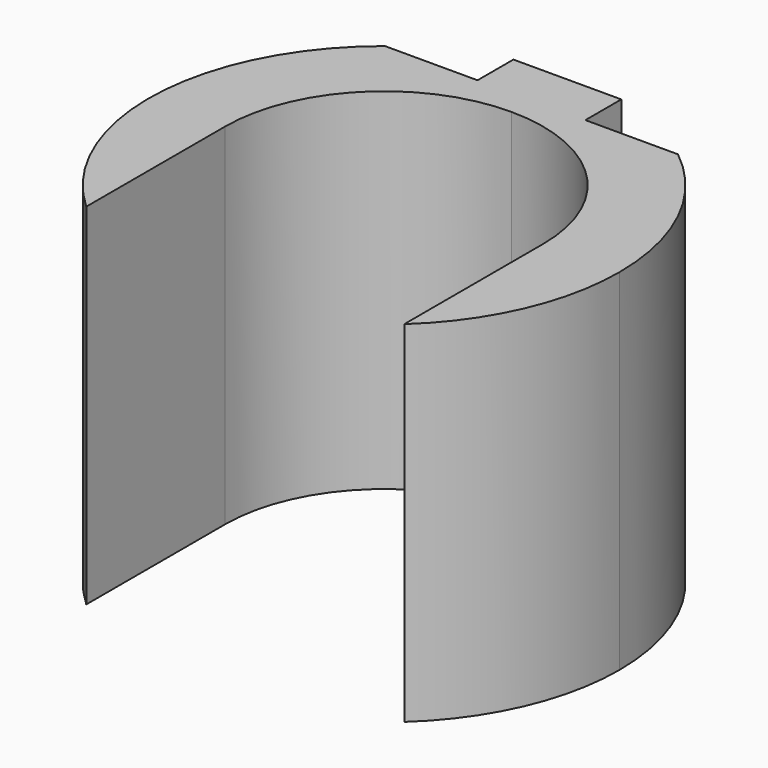
from build123d import *

# Parameters (mm, degrees)
F0_W     = 3.85
F0_H     = 3.202905
F1_DEPTH = 25


with BuildPart() as f1:
    # F0 (on Top) → F1 (new body)
    with BuildSketch(Plane.XY):
        with BuildLine():
            Line((0, 11.35), (0, 13.15))
            Line((0, 13.15), (-3.85, 13.15))
            Line((-3.85, 13.15), (-10.455501, 13.15))
            ThreePointArc((-10.455501, 13.15), (-16.789703, 0.588121), (-11.35, -12.386182))
            Line((-11.35, -12.386182), (-11.35, 0))
            ThreePointArc((-11.35, 0), (-8.025662, 8.025662), (0, 11.35))
        make_face()
        with BuildLine():
            ThreePointArc((11.35, -12.386182), (15.377256, -6.766092), (16.8, 0))
            ThreePointArc((16.8, 0), (15.130969, 7.30026), (10.455501, 13.15))
            Line((10.455501, 13.15), (3.85, 13.15))
            Line((3.85, 13.15), (0, 13.15))
            Line((0, 13.15), (0, 11.35))
            ThreePointArc((0, 11.35), (8.025662, 8.025662), (11.35, 0))
            Line((11.35, 0), (11.35, -12.386182))
        make_face()
        with Locations((-1.925, 14.751452)):
            Rectangle(F0_W, F0_H)
        with Locations((1.925, 14.751452)):
            Rectangle(F0_W, F0_H)
    extrude(amount=F1_DEPTH)


solid = f1.part
